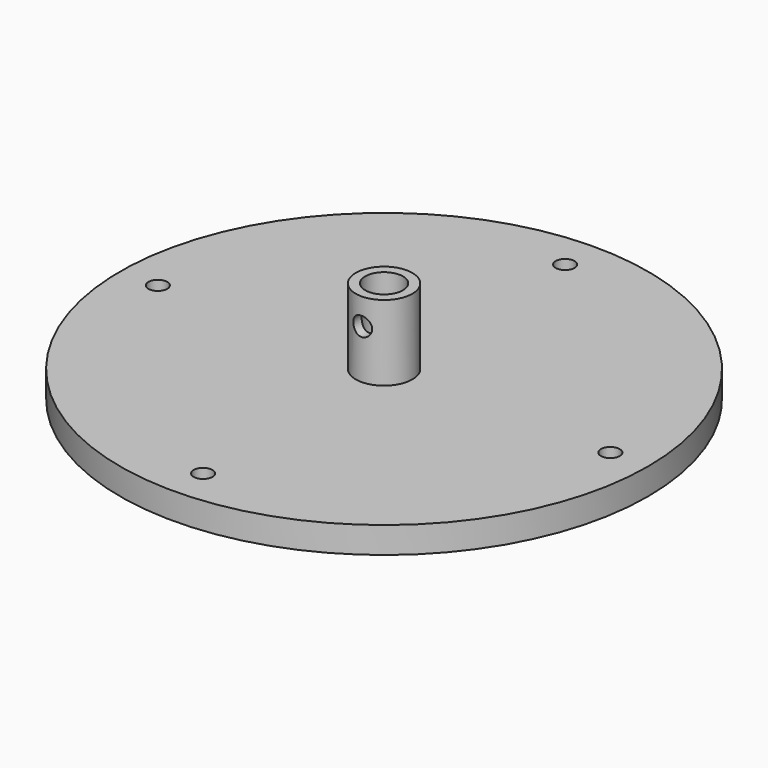
from build123d import *

# Parameters (mm, degrees)
SKETCH018_R          = 70
PAD010_DEPTH         = 7
SKETCH019_R          = 2.5
POCKET_DEPTH         = 3.5
POLARPATTERN_COUNT   = 4
SKETCH_R             = 7.5
SKETCH_R_2           = 5
PAD_DEPTH            = 20
SKETCH020_R          = 2.5
POCKET005_DEPTH      = 70.001
POCKET005_DEPTH_BACK = 70.001


with BuildPart() as part:
    # Sketch018 → Pad010 (new body)
    with BuildSketch(Plane.XY):
        Circle(SKETCH018_R)
    extrude(amount=PAD010_DEPTH)

    # Sketch019 → Pocket (cut)
    with BuildSketch(Plane.XY.offset(7)):
        with Locations((0, 60)):
            Circle(SKETCH019_R)
    pocket = extrude(amount=-POCKET_DEPTH, mode=Mode.SUBTRACT)

    # PolarPattern: Pocket ×4 about axis
    polarpattern_axis = Axis((0, 0, 7), (0, 0, 1))
    for i in range(1, POLARPATTERN_COUNT):
        add(pocket.rotate(polarpattern_axis, i * 360 / POLARPATTERN_COUNT), mode=Mode.SUBTRACT)

    # Sketch (on Face3 of PolarPattern) → Pad (join)
    with BuildSketch(Plane.XY.offset(7)):
        Circle(SKETCH_R)
        Circle(SKETCH_R_2, mode=Mode.SUBTRACT)
    extrude(amount=PAD_DEPTH)

    # Sketch020 → Pocket005 (cut, two sides)
    with BuildSketch(Plane.XZ) as pocket005_sk:
        with Locations((0, 20)):
            Circle(SKETCH020_R)
    extrude(amount=-POCKET005_DEPTH, mode=Mode.SUBTRACT)
    extrude(pocket005_sk.sketch, amount=POCKET005_DEPTH_BACK, mode=Mode.SUBTRACT)


solid = part.part
